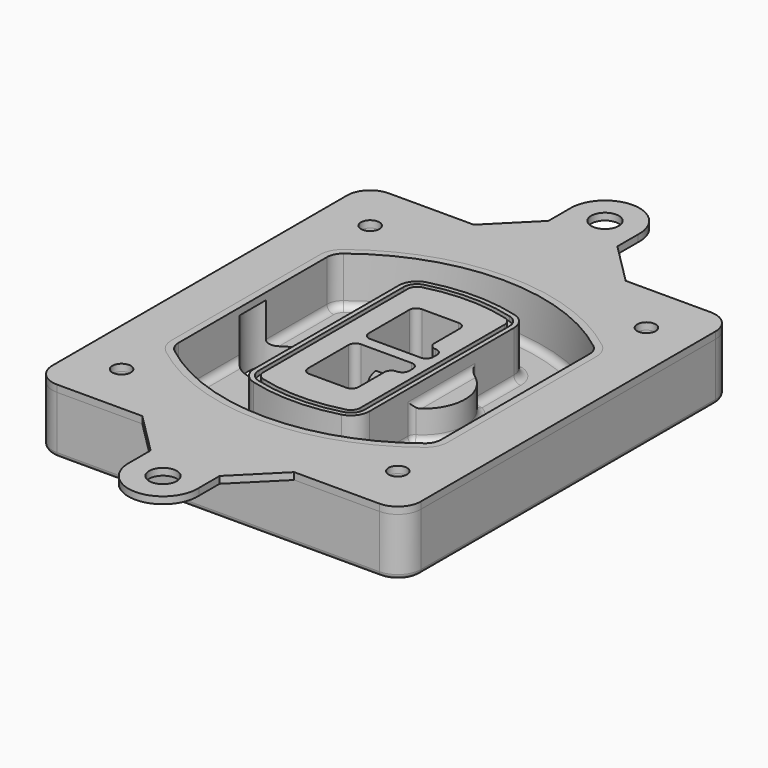
from build123d import *

# Parameters (mm, degrees)
F0_R      = 4
F1_DEPTH  = 25
F2_DEPTH  = 3
F3_DEPTH  = 18
F5_DEPTH  = 21
F6_DEPTH  = 2
F8_DEPTH  = 20
F9_DEPTH  = 16
F10_DEPTH = 25
F7_R      = 6
F7_R_2    = 4
F11_DEPTH = 6
F13_DEPTH = 9
F14_R     = 3
F15_R     = 2
F16_R     = 6
F16_R_2   = 4
F17_DEPTH = 3


with BuildPart() as f1:
    # F0 (on Top) → F1 (new body)
    with BuildSketch(Plane.XY):
        with BuildLine():
            ThreePointArc((-80, -80), (-77.0710678119, -87.0710678119), (-70, -90))
            Line((-70, -90), (70, -90))
            ThreePointArc((70, -90), (77.0710678119, -87.0710678119), (80, -80))
            Line((80, -80), (80, 80))
            ThreePointArc((80, 80), (77.0710678119, 87.0710678119), (70, 90))
            Line((70, 90), (-70, 90))
            ThreePointArc((-70, 90), (-77.0710678119, 87.0710678119), (-80, 80))
            Line((-80, 80), (-80, -80))
        make_face()
        with Locations((-60, -67.5)):
            Circle(F0_R, mode=Mode.SUBTRACT)
        with Locations((60, -67.5)):
            Circle(F0_R, mode=Mode.SUBTRACT)
        with Locations((-60, 67.5)):
            Circle(F0_R, mode=Mode.SUBTRACT)
        with BuildLine():
            ThreePointArc((-64, 40.2934422872), (-62.5820384798, 46.4328484224), (-58.6153846154, 51.3286200352))
            ThreePointArc((-58.6153846154, 51.3286200352), (0, 71.5), (58.6153846154, 51.3286200352))
            ThreePointArc((58.6153846154, 51.3286200352), (62.5820384798, 46.4328484224), (64, 40.2934422872))
            Line((64, 40.2934422872), (64, -40.2934422872))
            ThreePointArc((64, -40.2934422872), (62.5820384798, -46.4328484224), (58.6153846154, -51.3286200352))
            ThreePointArc((58.6153846154, -51.3286200352), (0, -71.5), (-58.6153846154, -51.3286200352))
            ThreePointArc((-58.6153846154, -51.3286200352), (-62.5820384798, -46.4328484224), (-64, -40.2934422872))
            Line((-64, -40.2934422872), (-64, 40.2934422872))
        make_face(mode=Mode.SUBTRACT)
        with Locations((60, 67.5)):
            Circle(F0_R, mode=Mode.SUBTRACT)
        with BuildLine():
            ThreePointArc((58.6153846154, 51.3286200352), (0, 71.5), (-58.6153846154, 51.3286200352))
            ThreePointArc((-58.6153846154, 51.3286200352), (-62.5820384798, 46.4328484224), (-64, 40.2934422872))
            Line((-64, 40.2934422872), (-64, -40.2934422872))
            ThreePointArc((-64, -40.2934422872), (-62.5820384798, -46.4328484224), (-58.6153846154, -51.3286200352))
            ThreePointArc((-58.6153846154, -51.3286200352), (0, -71.5), (58.6153846154, -51.3286200352))
            ThreePointArc((58.6153846154, -51.3286200352), (62.5820384798, -46.4328484224), (64, -40.2934422872))
            Line((64, -40.2934422872), (64, 40.2934422872))
            ThreePointArc((64, 40.2934422872), (62.5820384798, 46.4328484224), (58.6153846154, 51.3286200352))
        make_face()
        with BuildLine():
            Line((-60, -40.2934422872), (-60, 40.2934422872))
            ThreePointArc((-60, 40.2934422872), (-58.9871703427, 44.6787323838), (-56.1538461538, 48.1757121072))
            ThreePointArc((-56.1538461538, 48.1757121072), (0, 67.5), (56.1538461538, 48.1757121072))
            ThreePointArc((56.1538461538, 48.1757121072), (58.9871703427, 44.6787323838), (60, 40.2934422872))
            Line((60, 40.2934422872), (60, -40.2934422872))
            ThreePointArc((60, -40.2934422872), (58.9871703427, -44.6787323838), (56.1538461538, -48.1757121072))
            ThreePointArc((56.1538461538, -48.1757121072), (0, -67.5), (-56.1538461538, -48.1757121072))
            ThreePointArc((-56.1538461538, -48.1757121072), (-58.9871703427, -44.6787323838), (-60, -40.2934422872))
        make_face(mode=Mode.SUBTRACT)
        with BuildLine():
            ThreePointArc((-56.1538461538, 48.1757121072), (-58.9871703427, 44.6787323838), (-60, 40.2934422872))
            Line((-60, 40.2934422872), (-60, -40.2934422872))
            ThreePointArc((-60, -40.2934422872), (-58.9871703427, -44.6787323838), (-56.1538461538, -48.1757121072))
            ThreePointArc((-56.1538461538, -48.1757121072), (0, -67.5), (56.1538461538, -48.1757121072))
            ThreePointArc((56.1538461538, -48.1757121072), (58.9871703427, -44.6787323838), (60, -40.2934422872))
            Line((60, -40.2934422872), (60, 40.2934422872))
            ThreePointArc((60, 40.2934422872), (58.9871703427, 44.6787323838), (56.1538461538, 48.1757121072))
            ThreePointArc((56.1538461538, 48.1757121072), (0, 67.5), (-56.1538461538, 48.1757121072))
        make_face()
        with BuildLine():
            ThreePointArc((54.3076923077, 45.8110311612), (56.2910192399, 43.3631453548), (57, 40.2934422872))
            Line((57, 40.2934422872), (57, -40.2934422872))
            ThreePointArc((57, -40.2934422872), (56.2910192399, -43.3631453548), (54.3076923077, -45.8110311612))
            ThreePointArc((54.3076923077, -45.8110311612), (0, -64.5), (-54.3076923077, -45.8110311612))
            ThreePointArc((-54.3076923077, -45.8110311612), (-56.2910192399, -43.3631453548), (-57, -40.2934422872))
            Line((-57, -40.2934422872), (-57, 40.2934422872))
            ThreePointArc((-57, 40.2934422872), (-56.2910192399, 43.3631453548), (-54.3076923077, 45.8110311612))
            ThreePointArc((-54.3076923077, 45.8110311612), (0, 64.5), (54.3076923077, 45.8110311612))
        make_face(mode=Mode.SUBTRACT)
        with BuildLine():
            Line((57, -40.2934422872), (57, 40.2934422872))
            ThreePointArc((57, 40.2934422872), (56.2910192399, 43.3631453548), (54.3076923077, 45.8110311612))
            ThreePointArc((54.3076923077, 45.8110311612), (0, 64.5), (-54.3076923077, 45.8110311612))
            ThreePointArc((-54.3076923077, 45.8110311612), (-56.2910192399, 43.3631453548), (-57, 40.2934422872))
            Line((-57, 40.2934422872), (-57, -40.2934422872))
            ThreePointArc((-57, -40.2934422872), (-56.2910192399, -43.3631453548), (-54.3076923077, -45.8110311612))
            ThreePointArc((-54.3076923077, -45.8110311612), (0, -64.5), (54.3076923077, -45.8110311612))
            ThreePointArc((54.3076923077, -45.8110311612), (56.2910192399, -43.3631453548), (57, -40.2934422872))
        make_face()
    extrude(amount=-F1_DEPTH)

    # F0 (on Top) → F2 (join)
    with BuildSketch(Plane.XY):
        with BuildLine():
            ThreePointArc((-56.1538461538, 48.1757121072), (-58.9871703427, 44.6787323838), (-60, 40.2934422872))
            Line((-60, 40.2934422872), (-60, -40.2934422872))
            ThreePointArc((-60, -40.2934422872), (-58.9871703427, -44.6787323838), (-56.1538461538, -48.1757121072))
            ThreePointArc((-56.1538461538, -48.1757121072), (0, -67.5), (56.1538461538, -48.1757121072))
            ThreePointArc((56.1538461538, -48.1757121072), (58.9871703427, -44.6787323838), (60, -40.2934422872))
            Line((60, -40.2934422872), (60, 40.2934422872))
            ThreePointArc((60, 40.2934422872), (58.9871703427, 44.6787323838), (56.1538461538, 48.1757121072))
            ThreePointArc((56.1538461538, 48.1757121072), (0, 67.5), (-56.1538461538, 48.1757121072))
        make_face()
        with BuildLine():
            ThreePointArc((54.3076923077, 45.8110311612), (56.2910192399, 43.3631453548), (57, 40.2934422872))
            Line((57, 40.2934422872), (57, -40.2934422872))
            ThreePointArc((57, -40.2934422872), (56.2910192399, -43.3631453548), (54.3076923077, -45.8110311612))
            ThreePointArc((54.3076923077, -45.8110311612), (0, -64.5), (-54.3076923077, -45.8110311612))
            ThreePointArc((-54.3076923077, -45.8110311612), (-56.2910192399, -43.3631453548), (-57, -40.2934422872))
            Line((-57, -40.2934422872), (-57, 40.2934422872))
            ThreePointArc((-57, 40.2934422872), (-56.2910192399, 43.3631453548), (-54.3076923077, 45.8110311612))
            ThreePointArc((-54.3076923077, 45.8110311612), (0, 64.5), (54.3076923077, 45.8110311612))
        make_face(mode=Mode.SUBTRACT)
    extrude(amount=F2_DEPTH)

    # F0 (on Top) → F3 (cut)
    with BuildSketch(Plane.XY):
        with BuildLine():
            Line((57, -40.2934422872), (57, 40.2934422872))
            ThreePointArc((57, 40.2934422872), (56.2910192399, 43.3631453548), (54.3076923077, 45.8110311612))
            ThreePointArc((54.3076923077, 45.8110311612), (0, 64.5), (-54.3076923077, 45.8110311612))
            ThreePointArc((-54.3076923077, 45.8110311612), (-56.2910192399, 43.3631453548), (-57, 40.2934422872))
            Line((-57, 40.2934422872), (-57, -40.2934422872))
            ThreePointArc((-57, -40.2934422872), (-56.2910192399, -43.3631453548), (-54.3076923077, -45.8110311612))
            ThreePointArc((-54.3076923077, -45.8110311612), (0, -64.5), (54.3076923077, -45.8110311612))
            ThreePointArc((54.3076923077, -45.8110311612), (56.2910192399, -43.3631453548), (57, -40.2934422872))
        make_face()
    extrude(amount=-F3_DEPTH, mode=Mode.SUBTRACT)

    # F4 (on face) → F5 (join, through all)
    with BuildSketch(Plane.XY.offset(3)):
        with BuildLine():
            ThreePointArc((-25, -39.2465276821), (-23.3511545998, -44.1109737193), (-19.0842911877, -46.9702398883))
            ThreePointArc((-19.0842911877, -46.9702398883), (0, -49.5), (19.0842911877, -46.9702398883))
            ThreePointArc((19.0842911877, -46.9702398883), (23.3511545998, -44.1109737193), (25, -39.2465276821))
            Line((25, -39.2465276821), (25, 39.2465276821))
            ThreePointArc((25, 39.2465276821), (23.3511545998, 44.1109737193), (19.0842911877, 46.9702398883))
            ThreePointArc((19.0842911877, 46.9702398883), (0, 49.5), (-19.0842911877, 46.9702398883))
            ThreePointArc((-19.0842911877, 46.9702398883), (-23.3511545998, 44.1109737193), (-25, 39.2465276821))
            Line((-25, 39.2465276821), (-25, -39.2465276821))
        make_face()
        with BuildLine():
            ThreePointArc((18.5632183908, 45.0393118368), (21.7633659499, 42.89486221), (23, 39.2465276821))
            Line((23, 39.2465276821), (23, -39.2465276821))
            ThreePointArc((23, -39.2465276821), (21.7633659499, -42.89486221), (18.5632183908, -45.0393118368))
            ThreePointArc((18.5632183908, -45.0393118368), (0, -47.5), (-18.5632183908, -45.0393118368))
            ThreePointArc((-18.5632183908, -45.0393118368), (-21.7633659499, -42.89486221), (-23, -39.2465276821))
            Line((-23, -39.2465276821), (-23, 39.2465276821))
            ThreePointArc((-23, 39.2465276821), (-21.7633659499, 42.89486221), (-18.5632183908, 45.0393118368))
            ThreePointArc((-18.5632183908, 45.0393118368), (0, 47.5), (18.5632183908, 45.0393118368))
        make_face(mode=Mode.SUBTRACT)
        with BuildLine():
            Line((23, -39.2465276821), (23, 39.2465276821))
            ThreePointArc((23, 39.2465276821), (21.7633659499, 42.89486221), (18.5632183908, 45.0393118368))
            ThreePointArc((18.5632183908, 45.0393118368), (0, 47.5), (-18.5632183908, 45.0393118368))
            ThreePointArc((-18.5632183908, 45.0393118368), (-21.7633659499, 42.89486221), (-23, 39.2465276821))
            Line((-23, 39.2465276821), (-23, -39.2465276821))
            ThreePointArc((-23, -39.2465276821), (-21.7633659499, -42.89486221), (-18.5632183908, -45.0393118368))
            ThreePointArc((-18.5632183908, -45.0393118368), (0, -47.5), (18.5632183908, -45.0393118368))
            ThreePointArc((18.5632183908, -45.0393118368), (21.7633659499, -42.89486221), (23, -39.2465276821))
        make_face()
        with BuildLine():
            ThreePointArc((18.0421455939, 43.1083837852), (20.1755772999, 41.6787507007), (21, 39.2465276821))
            Line((21, 39.2465276821), (21, -39.2465276821))
            ThreePointArc((21, -39.2465276821), (20.1755772999, -41.6787507007), (18.0421455939, -43.1083837852))
            ThreePointArc((18.0421455939, -43.1083837852), (0, -45.5), (-18.0421455939, -43.1083837852))
            ThreePointArc((-18.0421455939, -43.1083837852), (-20.1755772999, -41.6787507007), (-21, -39.2465276821))
            Line((-21, -39.2465276821), (-21, 39.2465276821))
            ThreePointArc((-21, 39.2465276821), (-20.1755772999, 41.6787507007), (-18.0421455939, 43.1083837852))
            ThreePointArc((-18.0421455939, 43.1083837852), (0, 45.5), (18.0421455939, 43.1083837852))
        make_face(mode=Mode.SUBTRACT)
        with BuildLine():
            Line((21, -39.2465276821), (21, 39.2465276821))
            ThreePointArc((21, 39.2465276821), (20.1755772999, 41.6787507007), (18.0421455939, 43.1083837852))
            ThreePointArc((18.0421455939, 43.1083837852), (0, 45.5), (-18.0421455939, 43.1083837852))
            ThreePointArc((-18.0421455939, 43.1083837852), (-20.1755772999, 41.6787507007), (-21, 39.2465276821))
            Line((-21, 39.2465276821), (-21, -39.2465276821))
            ThreePointArc((-21, -39.2465276821), (-20.1755772999, -41.6787507007), (-18.0421455939, -43.1083837852))
            ThreePointArc((-18.0421455939, -43.1083837852), (0, -45.5), (18.0421455939, -43.1083837852))
            ThreePointArc((18.0421455939, -43.1083837852), (20.1755772999, -41.6787507007), (21, -39.2465276821))
        make_face()
        with BuildLine():
            Line((-8, -2.5), (14, -2.5))
            ThreePointArc((14, -2.5), (16.1213203436, -3.3786796564), (17, -5.5))
            Line((17, -5.5), (17, -7.5))
            ThreePointArc((17, -7.5), (16.1213203436, -9.6213203436), (14, -10.5))
            ThreePointArc((14, -10.5), (11.8786796564, -11.3786796564), (11, -13.5))
            Line((11, -13.5), (11, -27.5))
            ThreePointArc((11, -27.5), (10.1213203436, -29.6213203436), (8, -30.5))
            Line((8, -30.5), (-8, -30.5))
            ThreePointArc((-8, -30.5), (-10.1213203436, -29.6213203436), (-11, -27.5))
            Line((-11, -27.5), (-11, -5.5))
            ThreePointArc((-11, -5.5), (-10.1213203436, -3.3786796564), (-8, -2.5))
        make_face(mode=Mode.SUBTRACT)
        with BuildLine():
            ThreePointArc((-8, 2.5), (-10.1213203436, 3.3786796564), (-11, 5.5))
            Line((-11, 5.5), (-11, 27.5))
            ThreePointArc((-11, 27.5), (-10.1213203436, 29.6213203436), (-8, 30.5))
            Line((-8, 30.5), (8, 30.5))
            ThreePointArc((8, 30.5), (10.1213203436, 29.6213203436), (11, 27.5))
            Line((11, 27.5), (11, 13.5))
            ThreePointArc((11, 13.5), (11.8786796564, 11.3786796564), (14, 10.5))
            ThreePointArc((14, 10.5), (16.1213203436, 9.6213203436), (17, 7.5))
            Line((17, 7.5), (17, 5.5))
            ThreePointArc((17, 5.5), (16.1213203436, 3.3786796564), (14, 2.5))
            Line((14, 2.5), (-8, 2.5))
        make_face(mode=Mode.SUBTRACT)
    extrude(amount=-F5_DEPTH)

    # F4 (on face) → F6 (cut)
    with BuildSketch(Plane.XY.offset(3)):
        with BuildLine():
            Line((23, -39.2465276821), (23, 39.2465276821))
            ThreePointArc((23, 39.2465276821), (21.7633659499, 42.89486221), (18.5632183908, 45.0393118368))
            ThreePointArc((18.5632183908, 45.0393118368), (0, 47.5), (-18.5632183908, 45.0393118368))
            ThreePointArc((-18.5632183908, 45.0393118368), (-21.7633659499, 42.89486221), (-23, 39.2465276821))
            Line((-23, 39.2465276821), (-23, -39.2465276821))
            ThreePointArc((-23, -39.2465276821), (-21.7633659499, -42.89486221), (-18.5632183908, -45.0393118368))
            ThreePointArc((-18.5632183908, -45.0393118368), (0, -47.5), (18.5632183908, -45.0393118368))
            ThreePointArc((18.5632183908, -45.0393118368), (21.7633659499, -42.89486221), (23, -39.2465276821))
        make_face()
        with BuildLine():
            ThreePointArc((18.0421455939, 43.1083837852), (20.1755772999, 41.6787507007), (21, 39.2465276821))
            Line((21, 39.2465276821), (21, -39.2465276821))
            ThreePointArc((21, -39.2465276821), (20.1755772999, -41.6787507007), (18.0421455939, -43.1083837852))
            ThreePointArc((18.0421455939, -43.1083837852), (0, -45.5), (-18.0421455939, -43.1083837852))
            ThreePointArc((-18.0421455939, -43.1083837852), (-20.1755772999, -41.6787507007), (-21, -39.2465276821))
            Line((-21, -39.2465276821), (-21, 39.2465276821))
            ThreePointArc((-21, 39.2465276821), (-20.1755772999, 41.6787507007), (-18.0421455939, 43.1083837852))
            ThreePointArc((-18.0421455939, 43.1083837852), (0, 45.5), (18.0421455939, 43.1083837852))
        make_face(mode=Mode.SUBTRACT)
    extrude(amount=-F6_DEPTH, mode=Mode.SUBTRACT)

    # F7 (on face) → F8 (join)
    with BuildSketch(Plane(origin=(0, 0, -25), x_dir=(1, 0, 0), z_dir=(0, 0, -1))):
        with BuildLine():
            ThreePointArc((3.28842436, 0), (16.7567035675, 13.4682792075), (30.224982775, 0))
            Line((30.224982775, 0), (35.224982775, 0))
            ThreePointArc((35.224982775, 0), (16.7567035675, 18.4682792075), (-1.71157564, 0))
            Line((-1.71157564, 0), (3.28842436, 0))
        make_face()
        with BuildLine():
            Line((3.28842436, 0), (30.224982775, 0))
            ThreePointArc((30.224982775, 0), (16.7567035675, 13.4682792075), (3.28842436, 0))
        make_face()
        with BuildLine():
            ThreePointArc((3.28842436, 0), (16.7567035675, -13.4682792075), (30.224982775, 0))
            Line((30.224982775, 0), (3.28842436, 0))
        make_face()
        with BuildLine():
            Line((35.224982775, 0), (30.224982775, 0))
            ThreePointArc((30.224982775, 0), (16.7567035675, -13.4682792075), (3.28842436, 0))
            Line((3.28842436, 0), (-1.71157564, 0))
            ThreePointArc((-1.71157564, 0), (16.7567035675, -18.4682792075), (35.224982775, 0))
        make_face()
    extrude(amount=-F8_DEPTH)

    # F7 (on face) → F9 (cut)
    with BuildSketch(Plane(origin=(0, 0, -25), x_dir=(1, 0, 0), z_dir=(0, 0, -1))):
        with BuildLine():
            Line((3.28842436, 0), (30.224982775, 0))
            ThreePointArc((30.224982775, 0), (16.7567035675, 13.4682792075), (3.28842436, 0))
        make_face()
        with BuildLine():
            ThreePointArc((3.28842436, 0), (16.7567035675, -13.4682792075), (30.224982775, 0))
            Line((30.224982775, 0), (3.28842436, 0))
        make_face()
    extrude(amount=-F9_DEPTH, mode=Mode.SUBTRACT)

    # F7 (on face) → F10 (cut)
    with BuildSketch(Plane(origin=(0, 0, -25), x_dir=(1, 0, 0), z_dir=(0, 0, -1))):
        with BuildLine():
            Line((-59.0318229325, 0), (-32.0952645175, 0))
            ThreePointArc((-32.0952645175, 0), (-45.563543725, 13.4682792075), (-59.0318229325, 0))
        make_face()
        with BuildLine():
            ThreePointArc((-59.0318229325, 0), (-45.563543725, -13.4682792075), (-32.0952645175, 0))
            Line((-32.0952645175, 0), (-59.0318229325, 0))
        make_face()
    extrude(amount=-F10_DEPTH, mode=Mode.SUBTRACT)

    # F7 (on face) → F11 (cut)
    with BuildSketch(Plane(origin=(0, 0, -25), x_dir=(1, 0, 0), z_dir=(0, 0, -1))):
        with Locations((60, -67.5)):
            Circle(F7_R)
        with Locations((60, -67.5)):
            Circle(F7_R_2, mode=Mode.SUBTRACT)
        with Locations((60, -67.5)):
            Circle(F7_R)
        with Locations((60, -67.5)):
            Circle(F7_R_2, mode=Mode.SUBTRACT)
        with Locations((-60, -67.5)):
            Circle(F7_R)
        with Locations((-60, -67.5)):
            Circle(F7_R_2, mode=Mode.SUBTRACT)
        with Locations((-60, -67.5)):
            Circle(F7_R)
        with Locations((-60, -67.5)):
            Circle(F7_R_2, mode=Mode.SUBTRACT)
        with Locations((-60, 67.5)):
            Circle(F7_R)
        with Locations((-60, 67.5)):
            Circle(F7_R_2, mode=Mode.SUBTRACT)
        with Locations((-60, 67.5)):
            Circle(F7_R)
        with Locations((-60, 67.5)):
            Circle(F7_R_2, mode=Mode.SUBTRACT)
        with Locations((60, 67.5)):
            Circle(F7_R)
        with Locations((60, 67.5)):
            Circle(F7_R_2, mode=Mode.SUBTRACT)
        with Locations((60, 67.5)):
            Circle(F7_R)
        with Locations((60, 67.5)):
            Circle(F7_R_2, mode=Mode.SUBTRACT)
    extrude(amount=-F11_DEPTH, mode=Mode.SUBTRACT)

    # F12 (on face) → F13 (cut, through all)
    with BuildSketch(Plane(origin=(0, 0, -9), x_dir=(1, 0, 0), z_dir=(0, 0, -1))):
        with BuildLine():
            Line((11, 13.5), (11, 17.5481537753))
            ThreePointArc((11, 17.5481537753), (2.5696536419, 11.8239143813), (-1.5415842455, 2.5))
            Line((-1.5415842455, 2.5), (3.5224848595, 2.5))
            ThreePointArc((3.5224848595, 2.5), (6.1857188154, 8.3455872281), (11.2536447004, 12.2927168648))
            ThreePointArc((11.2536447004, 12.2927168648), (11.0640958889, 12.8831798879), (11, 13.5))
        make_face()
        with BuildLine():
            ThreePointArc((11.2536447004, -12.2927168648), (6.1857188154, -8.3455872281), (3.5224848595, -2.5))
            Line((3.5224848595, -2.5), (-1.5415842455, -2.5))
            ThreePointArc((-1.5415842455, -2.5), (2.5696536419, -11.8239143813), (11, -17.5481537753))
            Line((11, -17.5481537753), (11, -13.5))
            ThreePointArc((11, -13.5), (11.0640958889, -12.8831798879), (11.2536447004, -12.2927168648))
        make_face()
        with BuildLine():
            ThreePointArc((11.2536447004, 12.2927168648), (6.1857188154, 8.3455872281), (3.5224848595, 2.5))
            Line((3.5224848595, 2.5), (14, 2.5))
            ThreePointArc((14, 2.5), (16.1213203436, 3.3786796564), (17, 5.5))
            Line((17, 5.5), (17, 7.5))
            ThreePointArc((17, 7.5), (16.1213203436, 9.6213203436), (14, 10.5))
            ThreePointArc((14, 10.5), (12.3601599782, 10.9878446101), (11.2536447004, 12.2927168648))
        make_face()
        with BuildLine():
            Line((14, -2.5), (3.5224848595, -2.5))
            ThreePointArc((3.5224848595, -2.5), (6.1857188154, -8.3455872281), (11.2536447004, -12.2927168648))
            ThreePointArc((11.2536447004, -12.2927168648), (12.3601599782, -10.9878446101), (14, -10.5))
            ThreePointArc((14, -10.5), (16.1213203436, -9.6213203436), (17, -7.5))
            Line((17, -7.5), (17, -5.5))
            ThreePointArc((17, -5.5), (16.1213203436, -3.3786796564), (14, -2.5))
        make_face()
    extrude(amount=F13_DEPTH, mode=Mode.SUBTRACT)

    # F14
    f14_edges = [f1.edges().sort_by_distance(p)[0] for p in [
        (-57, -23.703476, -18),
        (-57, 23.703476, -18),
        (25, 0, -5),
        (25, 16.526506, -11.5),
        (25, -16.526506, -11.5),
        (25, -27.886517, -18),
        (35.224983, 0, -18),
    ]]
    fillet(f14_edges, radius=F14_R)

    # F15
    f15_edges = [f1.edges().sort_by_distance(p)[0] for p in [
        (0, -90, -25),
    ]]
    fillet(f15_edges, radius=F15_R)


with BuildPart() as f17:
    # F16 (on face) → F17 (new body, through all)
    with BuildSketch(Plane.XY):
        with BuildLine():
            Line((14.9815627547, 108), (14.9815627547, 119.2565099688))
            ThreePointArc((14.9815627547, 119.2565099688), (0, 135), (-14.9815627547, 119.2565099688))
            Line((-14.9815627547, 119.2565099688), (-14.9815627547, 108))
            Line((-14.9815627547, 108), (-32.9815627547, 90))
            Line((-32.9815627547, 90), (32.9815627547, 90))
            Line((32.9815627547, 90), (14.9815627547, 108))
        make_face()
        with Locations((0, 120)):
            Circle(F16_R, mode=Mode.SUBTRACT)
        with BuildLine():
            Line((70, 90), (32.9815627547, 90))
            Line((32.9815627547, 90), (-32.9815627547, 90))
            Line((-32.9815627547, 90), (-70, 90))
            ThreePointArc((-70, 90), (-77.0710678119, 87.0710678119), (-80, 80))
            Line((-80, 80), (-80, -80))
            ThreePointArc((-80, -80), (-77.0710678119, -87.0710678119), (-70, -90))
            Line((-70, -90), (-32.9815627547, -90))
            Line((-32.9815627547, -90), (32.9815627547, -90))
            Line((32.9815627547, -90), (70, -90))
            ThreePointArc((70, -90), (77.0710678119, -87.0710678119), (80, -80))
            Line((80, -80), (80, 80))
            ThreePointArc((80, 80), (77.0710678119, 87.0710678119), (70, 90))
        make_face()
        with Locations((-60, -67.5)):
            Circle(F16_R_2, mode=Mode.SUBTRACT)
        with Locations((60, -67.5)):
            Circle(F16_R_2, mode=Mode.SUBTRACT)
        with Locations((-60, 67.5)):
            Circle(F16_R_2, mode=Mode.SUBTRACT)
        with BuildLine():
            ThreePointArc((-60, 40.2934422872), (-58.9871703427, 44.6787323838), (-56.1538461538, 48.1757121072))
            ThreePointArc((-56.1538461538, 48.1757121072), (0, 67.5), (56.1538461538, 48.1757121072))
            ThreePointArc((56.1538461538, 48.1757121072), (58.9871703427, 44.6787323838), (60, 40.2934422872))
            Line((60, 40.2934422872), (60, -40.2934422872))
            ThreePointArc((60, -40.2934422872), (58.9871703427, -44.6787323838), (56.1538461538, -48.1757121072))
            ThreePointArc((56.1538461538, -48.1757121072), (0, -67.5), (-56.1538461538, -48.1757121072))
            ThreePointArc((-56.1538461538, -48.1757121072), (-58.9871703427, -44.6787323838), (-60, -40.2934422872))
            Line((-60, -40.2934422872), (-60, 40.2934422872))
        make_face(mode=Mode.SUBTRACT)
        with Locations((60, 67.5)):
            Circle(F16_R_2, mode=Mode.SUBTRACT)
        with BuildLine():
            Line((14.9815627547, -108), (32.9815627547, -90))
            Line((32.9815627547, -90), (-32.9815627547, -90))
            Line((-32.9815627547, -90), (-14.9815627547, -108))
            Line((-14.9815627547, -108), (-14.9815627547, -119.2565099688))
            ThreePointArc((-14.9815627547, -119.2565099688), (0, -135), (14.9815627547, -119.2565099688))
            Line((14.9815627547, -119.2565099688), (14.9815627547, -108))
        make_face()
        with Locations((0, -120)):
            Circle(F16_R, mode=Mode.SUBTRACT)
    extrude(amount=F17_DEPTH)


solid = Compound([f1.part, f17.part])
